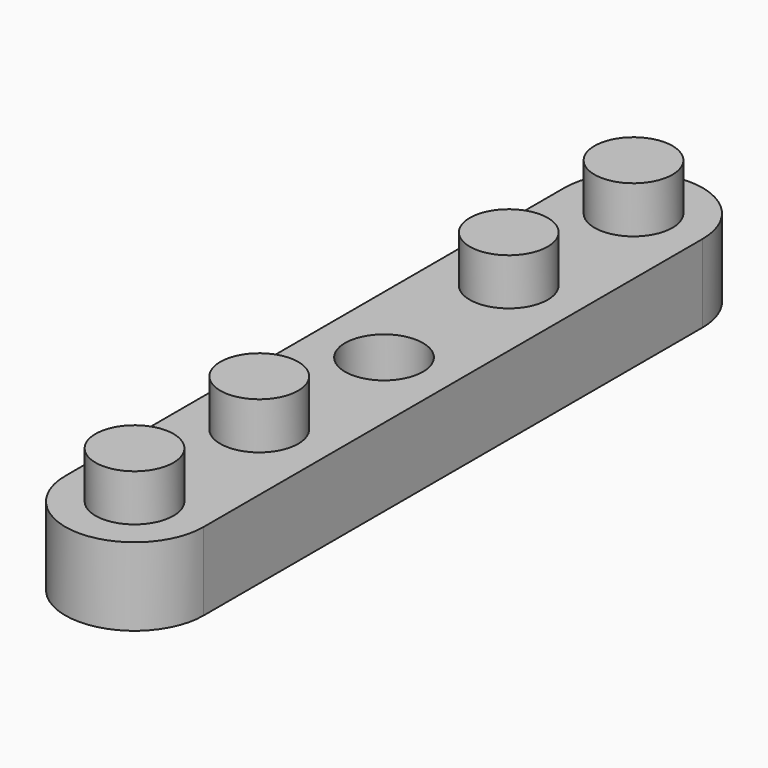
from build123d import *

# Parameters (mm, degrees)
F0_R     = 2.5
F2_DEPTH = 5
F1_R     = 2.5
F3_R     = 2.5
F4_DEPTH = 3
F5_R     = 2.5
F6_DEPTH = 5.001


with BuildPart() as f2:
    # F0 (on Top) → F2 (new body)
    with BuildSketch(Plane.XY):
        with BuildLine():
            ThreePointArc((4.4334989042, 20), (0, 24.4334989042), (-4.4334989042, 20))
            Line((-4.4334989042, 20), (-4.4334989042, -20))
            ThreePointArc((-4.4334989042, -20), (0, -24.4334989042), (4.4334989042, -20))
            Line((4.4334989042, -20), (4.4334989042, 20))
        make_face()
        Circle(F0_R, mode=Mode.SUBTRACT)
        Circle(F0_R)
    extrude(amount=-F2_DEPTH)

    # F5 (on face) → F6 (cut, through all)
    with BuildSketch(Plane.XY):
        Circle(F5_R)
    extrude(amount=-F6_DEPTH, mode=Mode.SUBTRACT)


with BuildPart() as f2b:
    # F1 (on face) → F2, piece 2 (new body)
    with BuildSketch(Plane.XY):
        with BuildLine():
            Line((4.4334989042, -20), (4.4334989042, 20))
            ThreePointArc((4.4334989042, 20), (0, 24.4334989042), (-4.4334989042, 20))
            Line((-4.4334989042, 20), (-4.4334989042, -20))
            ThreePointArc((-4.4334989042, -20), (0, -24.4334989042), (4.4334989042, -20))
        make_face()
        Circle(F1_R, mode=Mode.SUBTRACT)
    extrude(amount=-F2_DEPTH)


with BuildPart() as f4:
    # F3 (on face) → F4 (new body)
    with BuildSketch(Plane.XY):
        with Locations((0, 10)):
            Circle(F3_R)
    extrude(amount=F4_DEPTH)


with BuildPart() as f4b:
    # F3 (on face) → F4, piece 2 (new body)
    with BuildSketch(Plane.XY):
        with Locations((0, 20)):
            Circle(F3_R)
    extrude(amount=F4_DEPTH)


with BuildPart() as f4c:
    # F3 (on face) → F4, piece 3 (new body)
    with BuildSketch(Plane.XY):
        with Locations((0, -10)):
            Circle(F3_R)
    extrude(amount=F4_DEPTH)


with BuildPart() as f4d:
    # F3 (on face) → F4, piece 4 (new body)
    with BuildSketch(Plane.XY):
        with Locations((0, -20)):
            Circle(F3_R)
    extrude(amount=F4_DEPTH)


solid = Compound([f2.part, f2b.part, f4.part, f4b.part, f4c.part, f4d.part])
